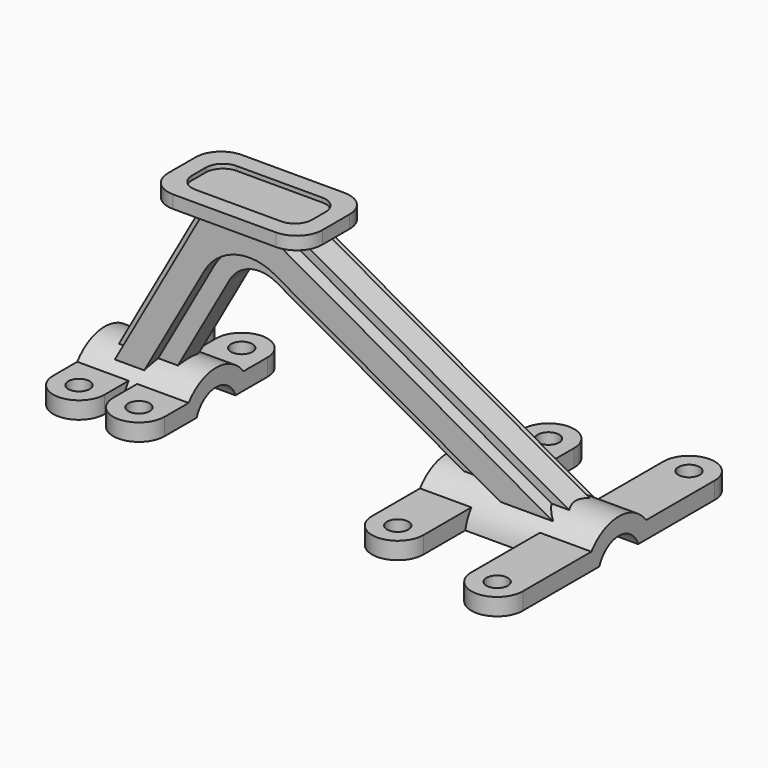
from build123d import *

# Parameters (mm, degrees)
PAD_DEPTH         = 600
PAD001_DEPTH      = 15
PAD002_DEPTH      = 30
SKETCH004_W       = 270
SKETCH004_H       = 40
POCKET_DEPTH      = 48.990795
POCKET_DEPTH_BACK = -48.990795
PAD003_DEPTH      = 15
POCKET001_DEPTH   = 5
SKETCH007_R       = 12.5
PAD004_DEPTH      = 20


with BuildPart() as part:
    # Sketch (on YZ_Plane of Origin) → Pad (new body)
    with BuildSketch(Plane.YZ):
        with BuildLine():
            ThreePointArc((28.284271, 0), (0, 20), (-28.284271, 0))
            Line((-48.989795, 0), (-28.284271, 0))
            ThreePointArc((48.989795, 0), (0, 40), (-48.989795, 0))
            Line((28.284271, 0), (48.989795, 0))
        make_face()
    extrude(amount=PAD_DEPTH)

    # Sketch002 (on XZ_Plane of Origin) → Pad001 (join, symmetric)
    with BuildSketch(Plane.XZ):
        with BuildLine():
            Line((18.783308, 20), (130.950231, 220))
            Line((130.950231, 220), (229.049769, 220))
            Line((229.049769, 220), (585.661137, 20))
            Line((463.001241, 20), (585.661137, 20))
            Line((212.293102, 160.605803), (463.001241, 20))
            ThreePointArc((212.293102, 160.605803), (181.892852, 164.222858), (157.838985, 145.28428))
            Line((87.575223, 20), (157.838985, 145.28428))
            Line((18.783308, 20), (87.575223, 20))
        make_face()
    extrude(amount=PAD001_DEPTH, both=True)

    # Sketch003 → Pad002 (join, symmetric)
    with BuildSketch(Plane.XZ):
        with BuildLine():
            Line((30.248627, 20), (142.41555, 220))
            Line((142.41555, 220), (208.606453, 220))
            Line((208.606453, 220), (565.217821, 20))
            Line((565.217821, 20), (503.887873, 20))
            Line((503.887873, 20), (222.076251, 178.049713))
            ThreePointArc((222.076251, 178.049713), (176.475876, 183.475296), (140.395074, 155.067429))
            Line((140.395074, 155.067429), (64.644585, 20))
            Line((64.644585, 20), (30.248627, 20))
        make_face()
    pad002 = extrude(amount=PAD002_DEPTH, both=True)

    # Mirrored: Pad002 across XZ
    add(pad002.mirror(Plane.XZ))

    # Sketch004 (on XZ_Plane of Origin) → Pocket (cut, two sides)
    with BuildSketch(Plane.XZ) as pocket_sk:
        with Locations((265, 20)):
            Rectangle(SKETCH004_W, SKETCH004_H)
    extrude(amount=-POCKET_DEPTH, mode=Mode.SUBTRACT)
    extrude(pocket_sk.sketch, amount=-POCKET_DEPTH_BACK, mode=Mode.SUBTRACT)

    # Sketch005 (on Face27 of Pocket) → Pad003 (join)
    with BuildSketch(Plane.XY.offset(220)):
        with BuildLine():
            Line((90, 20), (90, -20))
            ThreePointArc((90, -20), (98.786797, -41.213203), (120, -50))
            Line((120, -50), (240, -50))
            ThreePointArc((240, -50), (261.213203, -41.213203), (270, -20))
            Line((270, -20), (270, 20))
            ThreePointArc((270, 20), (261.213203, 41.213203), (240, 50))
            Line((240, 50), (120, 50))
            ThreePointArc((120, 50), (98.786797, 41.213203), (90, 20))
        make_face()
    extrude(amount=PAD003_DEPTH)

    # Sketch006 (on Face45 of Pad003) → Pocket001 (cut)
    with BuildSketch(Plane.XY.offset(235)):
        with BuildLine():
            Line((110, 10), (110, -10))
            ThreePointArc((110, -10), (115.857864, -24.142136), (130, -30))
            Line((130, -30), (230, -30))
            ThreePointArc((230, -30), (244.142136, -24.142136), (250, -10))
            Line((250, -10), (250, 10))
            ThreePointArc((250, 10), (244.142136, 24.142136), (230, 30))
            Line((230, 30), (130, 30))
            ThreePointArc((130, 30), (115.857864, 24.142136), (110, 10))
        make_face()
    extrude(amount=-POCKET001_DEPTH, mode=Mode.SUBTRACT)

    # Sketch007 (on XY_Plane of Origin) → Pad004 (join)
    with BuildSketch(Plane.XY):
        with BuildLine():
            Line((0, -28.284271), (0, -75))
            ThreePointArc((0, -75), (30, -105), (60, -75))
            Line((60, -75), (60, -28.284271))
            Line((60, -28.284271), (0, -28.284271))
        make_face()
        with Locations((30, -75)):
            Circle(SKETCH007_R, mode=Mode.SUBTRACT)
        with BuildLine():
            Line((130, -28.284271), (130, -75))
            ThreePointArc((70, -75), (100, -105), (130, -75))
            Line((70, -75), (70, -28.284271))
            Line((70, -28.284271), (130, -28.284271))
        make_face()
        with Locations((100, -75)):
            Circle(SKETCH007_R, mode=Mode.SUBTRACT)
        with BuildLine():
            Line((400, -28.284271), (460, -28.284271))
            Line((460, -28.284271), (460, -110))
            ThreePointArc((400, -110), (430, -140), (460, -110))
            Line((400, -110), (400, -28.284271))
        make_face()
        with Locations((430, -110)):
            Circle(SKETCH007_R, mode=Mode.SUBTRACT)
        with BuildLine():
            Line((540, -28.284271), (540, -140))
            ThreePointArc((540, -140), (570, -170), (600, -140))
            Line((600, -140), (600, -28.284271))
            Line((600, -28.284271), (540, -28.284271))
        make_face()
        with Locations((570, -140)):
            Circle(SKETCH007_R, mode=Mode.SUBTRACT)
    pad004 = extrude(amount=PAD004_DEPTH)

    # Mirrored001: Pad004 across XZ
    add(pad004.mirror(Plane.XZ))


solid = part.part
